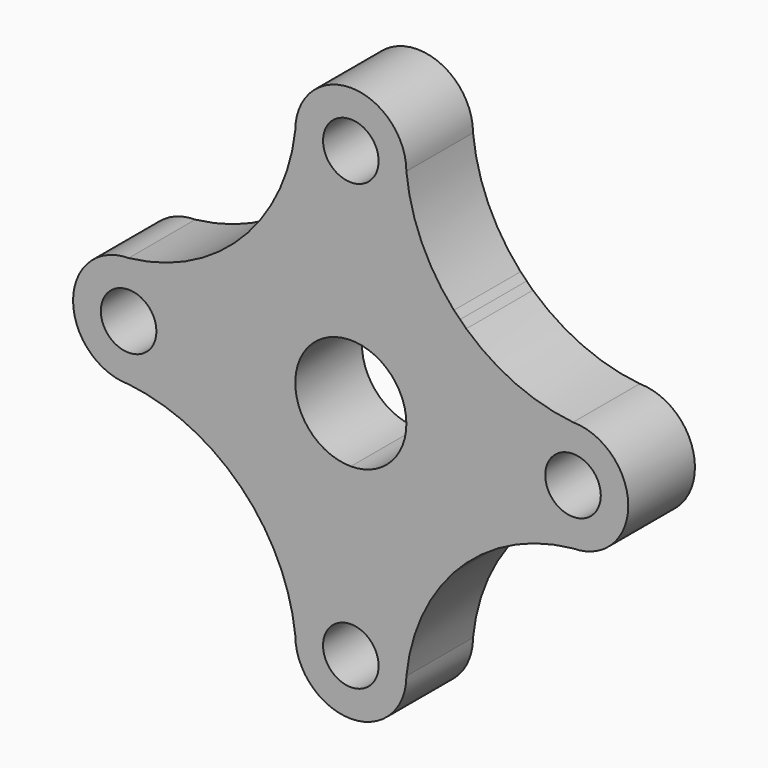
from build123d import *

# Parameters (mm, degrees)
F0_R     = 6.35
F1_DEPTH = 19.05


with BuildPart() as f1:
    # F0 (on Front) → F1 (new body)
    with BuildSketch(Plane.XZ):
        with BuildLine():
            ThreePointArc((6.35, -50.8), (4.490128, -46.309872), (0, -44.45))
            ThreePointArc((0, -44.45), (-4.490128, -55.290128), (6.35, -50.8))
        make_face()
        with Locations((50.8, 0)):
            Circle(F0_R)
        with BuildLine():
            Line((26.389365, 23.574162), (24.981764, 24.981764))
            Line((24.981764, 24.981764), (24.948811, 24.948811))
            ThreePointArc((24.948811, 24.948811), (25.661044, 24.253057), (26.389365, 23.574162))
        make_face()
        with BuildLine():
            Line((24.948811, 24.948811), (24.981764, 24.981764))
            Line((24.981764, 24.981764), (23.574162, 26.389365))
            ThreePointArc((23.574162, 26.389365), (24.253057, 25.661044), (24.948811, 24.948811))
        make_face()
        with BuildLine():
            ThreePointArc((26.389365, 23.574162), (25.661044, 24.253057), (24.948811, 24.948811))
            ThreePointArc((24.948811, 24.948811), (24.253057, 25.661044), (23.574162, 26.389365))
            ThreePointArc((23.574162, 26.389365), (16.170482, 37.718625), (12.7, 50.8))
            ThreePointArc((12.7, 50.8), (0, 63.5), (-12.7, 50.8))
            ThreePointArc((-12.7, 50.8), (-25.065625, 25.065625), (-50.8, 12.7))
            ThreePointArc((-50.8, 12.7), (-63.5, 0), (-50.8, -12.7))
            ThreePointArc((-50.8, -12.7), (-36.87956, -16.690866), (-25.065625, -25.065625))
            ThreePointArc((-25.065625, -25.065625), (-16.690866, -36.87956), (-12.7, -50.8))
            ThreePointArc((-12.7, -50.8), (0, -63.5), (12.7, -50.8))
            ThreePointArc((12.7, -50.8), (16.170482, -37.718625), (23.574162, -26.389365))
            ThreePointArc((23.574162, -26.389365), (24.253057, -25.661044), (24.948811, -24.948811))
            ThreePointArc((24.948811, -24.948811), (25.661044, -24.253057), (26.389365, -23.574162))
            ThreePointArc((26.389365, -23.574162), (37.718625, -16.170482), (50.8, -12.7))
            ThreePointArc((50.8, -12.7), (63.432032, 0), (50.8, 12.7))
            ThreePointArc((50.8, 12.7), (37.718625, 16.170482), (26.389365, 23.574162))
        make_face()
        with BuildLine():
            ThreePointArc((6.35, -50.8), (-4.490128, -55.290128), (0, -44.45))
            ThreePointArc((0, -44.45), (4.490128, -46.309872), (6.35, -50.8))
        make_face(mode=Mode.SUBTRACT)
        with Locations((-50.8, 0)):
            Circle(F0_R, mode=Mode.SUBTRACT)
        with BuildLine():
            ThreePointArc((12.7, 0), (8.980256, -8.980256), (0, -12.7))
            ThreePointArc((0, -12.7), (-8.980256, 8.980256), (12.7, 0))
        make_face(mode=Mode.SUBTRACT)
        with Locations((50.8, 0)):
            Circle(F0_R, mode=Mode.SUBTRACT)
        with Locations((0, 50.8)):
            Circle(F0_R, mode=Mode.SUBTRACT)
        with BuildLine():
            Line((24.981764, -24.981764), (26.389365, -23.574162))
            ThreePointArc((26.389365, -23.574162), (25.661044, -24.253057), (24.948811, -24.948811))
            Line((24.948811, -24.948811), (24.981764, -24.981764))
        make_face()
        with BuildLine():
            Line((23.574162, -26.389365), (24.981764, -24.981764))
            Line((24.981764, -24.981764), (24.948811, -24.948811))
            ThreePointArc((24.948811, -24.948811), (24.253057, -25.661044), (23.574162, -26.389365))
        make_face()
    extrude(amount=F1_DEPTH)


solid = f1.part
